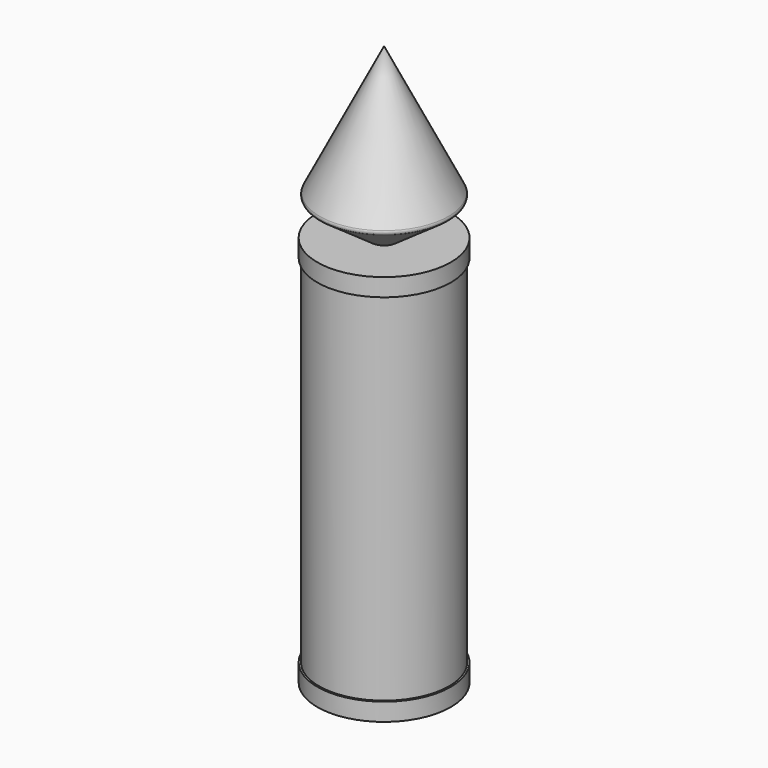
from build123d import *

# Parameters (mm, degrees)
F0_R     = 4.6355
F1_DEPTH = 25.4
F2_R     = 4.7625
F3_DEPTH = 1.27
F4_R     = 4.7625
F4_R_2   = 4.6355
F5_DEPTH = 1.27
F8_R     = 0.254


with BuildPart() as f1:
    # F0 (on Top) → F1 (new body)
    with BuildSketch(Plane.XY):
        Circle(F0_R)
    extrude(amount=F1_DEPTH)

    # F2 (on face) → F3 (join)
    with BuildSketch(Plane.XY.offset(25.4)):
        Circle(F2_R)
    extrude(amount=F3_DEPTH)

    # F6 (on Right) → F7 (revolve)
    with BuildSketch(Plane.YZ):
        Polygon((0, 38.7051041842), (0, 26.0051041842), (4.6950788237, 29.3100513518), align=None)
    revolve(axis=Axis((0, 0, 32.3551041842), (0, 0, 1)))

    # F8
    f8_edges = [f1.edges().sort_by_distance(p)[0] for p in [
        (0, -4.695079, 29.310051),
        (0, 2.347539, 34.007578),
    ]]
    fillet(f8_edges, radius=F8_R)


with BuildPart() as f5:
    # F4 (on face) → F5 (new body)
    with BuildSketch(Plane(origin=(0, 0, 0), x_dir=(1, 0, 0), z_dir=(0, 0, -1))):
        Circle(F4_R)
        Circle(F4_R_2, mode=Mode.SUBTRACT)
    extrude(amount=F5_DEPTH)


solid = Compound([f1.part, f5.part])
